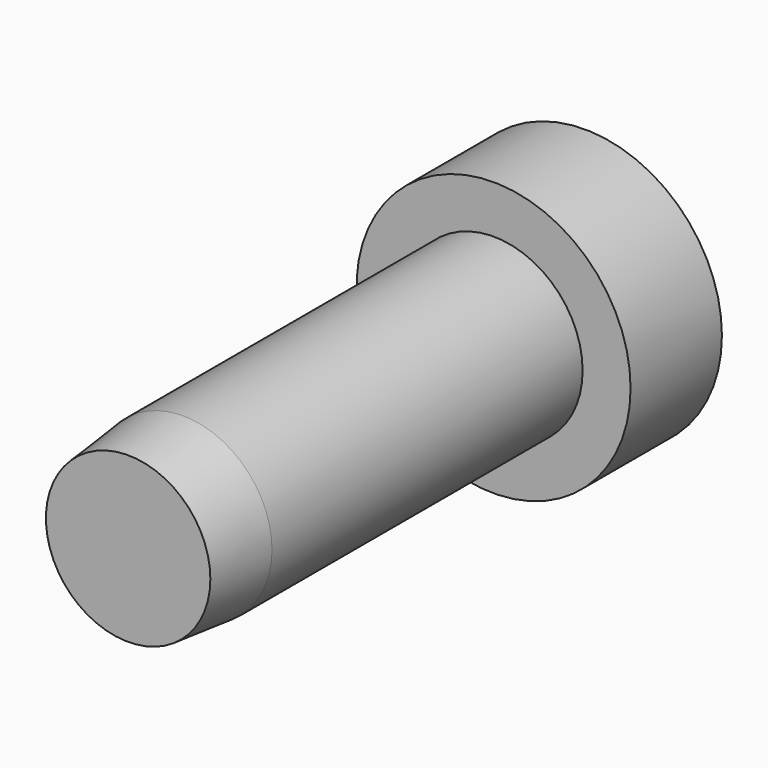
from build123d import *

# Parameters (mm, degrees)
F0_R     = 3.9
F1_DEPTH = 25
F0_R_2   = 6
F2_DEPTH = 5
F3_SIZE2 = 3
F3_SIZE  = 0.3


with BuildPart() as f1:
    # F0 (on Front) → F1 (new body)
    with BuildSketch(Plane.XZ):
        Circle(F0_R)
    extrude(amount=F1_DEPTH)

    # F0 (on Front) → F2 (join)
    with BuildSketch(Plane.XZ):
        Circle(F0_R_2)
        Circle(F0_R, mode=Mode.SUBTRACT)
    extrude(amount=F2_DEPTH)

    # F3
    f3_edges = [f1.edges().sort_by_distance(p)[0] for p in [
        (-3.9, -25, 0),
    ]]
    f3_side = f1.faces().sort_by_distance((0, -25, 0))[0]
    chamfer(f3_edges, length=F3_SIZE, length2=F3_SIZE2, reference=f3_side)


solid = f1.part
